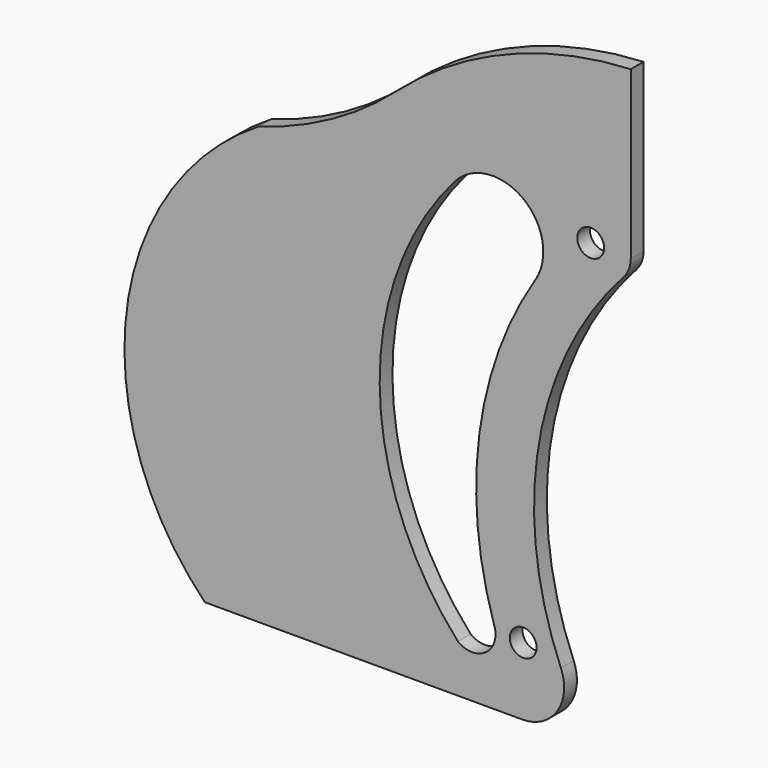
from build123d import *

# Parameters (mm, degrees)
SKETCH_R  = 4.19854
PAD_DEPTH = 5


with BuildPart() as part:
    # Sketch → Pad (new body)
    with BuildSketch(Plane.XZ):
        with BuildLine():
            Line((-74.76046, 53.421562), (-74.76046, 105.632532))
            ThreePointArc((-74.76046, 105.632532), (-113.884518, 96.986251), (-147.92625, 75.853087))
            ThreePointArc((-191.195978, 51.976961), (-168.240252, 61.521279), (-147.92625, 75.853087))
            ThreePointArc((-191.195978, 51.976961), (-232.525307, -12.219718), (-208.043261, -84.538155))
            Line((-108.653475, -84.538155), (-208.043261, -84.538155))
            ThreePointArc((-108.653475, -84.538155), (-97.779522, -78.707083), (-96.619688, -66.422986))
            ThreePointArc((-76.988182, 47.66843), (-103.469883, -6.509598), (-96.619688, -66.422986))
            ThreePointArc((-76.988182, 47.66843), (-75.336834, 50.336871), (-74.76046, 53.421562))
        make_face()
        with Locations((-108.43, -63.28574)):
            Circle(SKETCH_R, mode=Mode.SUBTRACT)
        with Locations((-87.308784, 53.70005)):
            Circle(SKETCH_R, mode=Mode.SUBTRACT)
        with BuildLine():
            ThreePointArc((-129.83, 56.8), (-153.326605, -6.587909), (-128.84, -69.6))
            ThreePointArc((-128.84, -69.6), (-119.974424, -69.628015), (-117.608236, -61.08399))
            ThreePointArc((-104.620375, 37.907127), (-122.131275, -10.14298), (-117.608236, -61.08399))
            ThreePointArc((-104.620375, 37.907127), (-108.458862, 59.050873), (-129.83, 56.8))
        make_face(mode=Mode.SUBTRACT)
    extrude(amount=PAD_DEPTH)


solid = part.part
